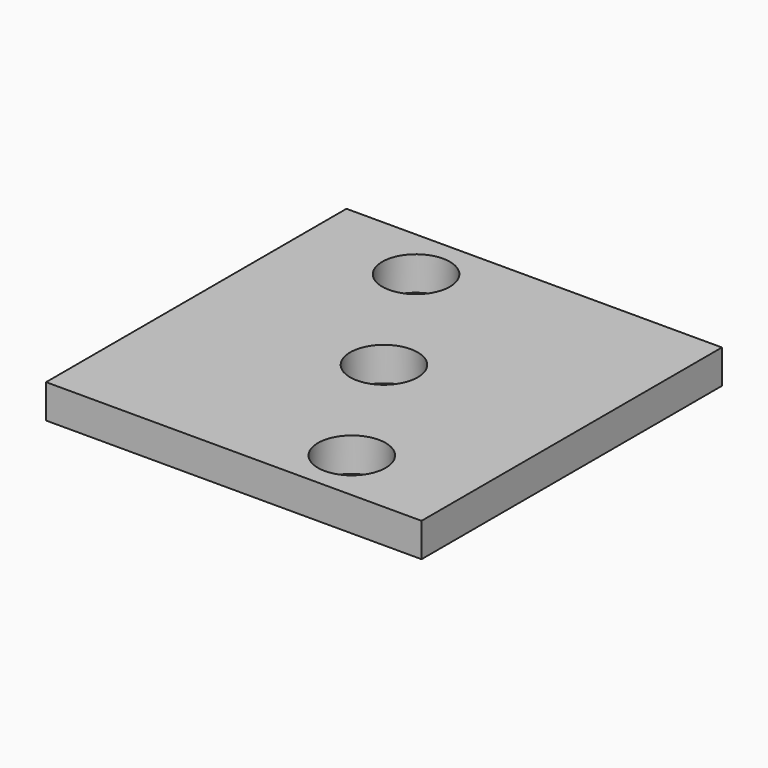
from build123d import *

# Parameters (mm, degrees)
F0_R     = 6.35
F1_DEPTH = 6.35
F2_R     = 6.35
F3_DEPTH = 6.351


with BuildPart() as f1:
    # F0 (on Top) → F1 (new body)
    with BuildSketch(Plane.XY):
        Polygon((-35.2425, 70.485), (-35.2425, 0), (-6.35, 0), (6.35, 0), (35.2425, 0), (35.2425, 70.485), align=None)
        with Locations((14.2875, 9.8298)):
            Circle(F0_R, mode=Mode.SUBTRACT)
        with Locations((-14.2875, 60.6298)):
            Circle(F0_R, mode=Mode.SUBTRACT)
    extrude(amount=F1_DEPTH)

    # F2 (on face) → F3 (cut, through all)
    with BuildSketch(Plane(origin=(0, 0, 0), x_dir=(1, 0, 0), z_dir=(0, 0, -1))):
        with Locations((0, -35.2298)):
            Circle(F2_R)
    extrude(amount=-F3_DEPTH, mode=Mode.SUBTRACT)


solid = f1.part
